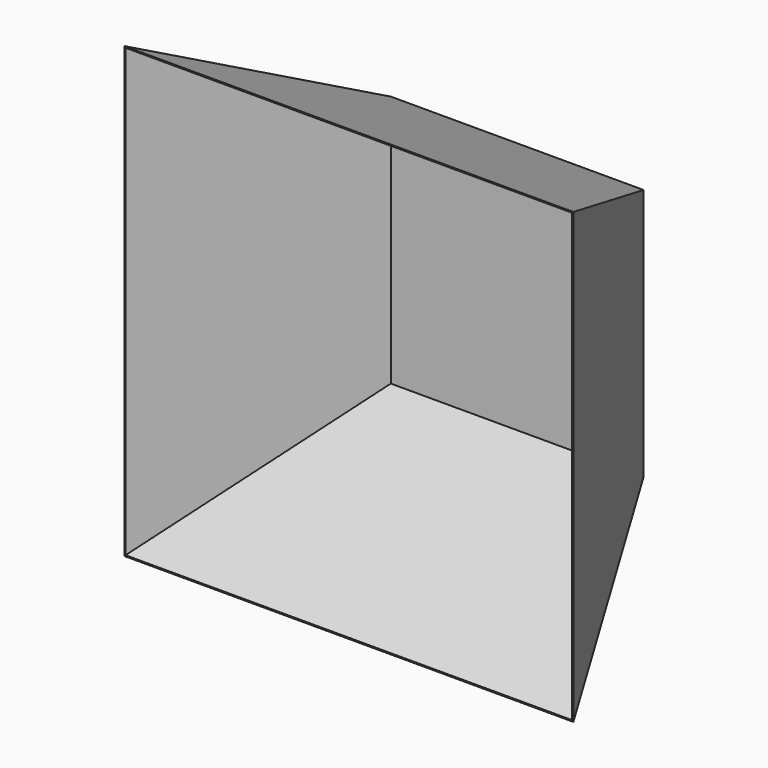
from build123d import *

# Parameters (mm, degrees)
F0_W     = 600
F0_H     = 600
F1_DEPTH = 500
F1_TAPER = -25
F2_T     = -2.5


with BuildPart() as f1:
    # F0 (on Front) → F1 (new body)
    with BuildSketch(Plane.XZ):
        Rectangle(F0_W, F0_H)
    extrude(amount=F1_DEPTH, taper=F1_TAPER)

    # F2
    f2_openings = [f1.faces().sort_by_distance(p)[0] for p in [
        (0, -500, 0),
    ]]
    offset(amount=F2_T, openings=f2_openings, kind=Kind.INTERSECTION)


solid = f1.part
